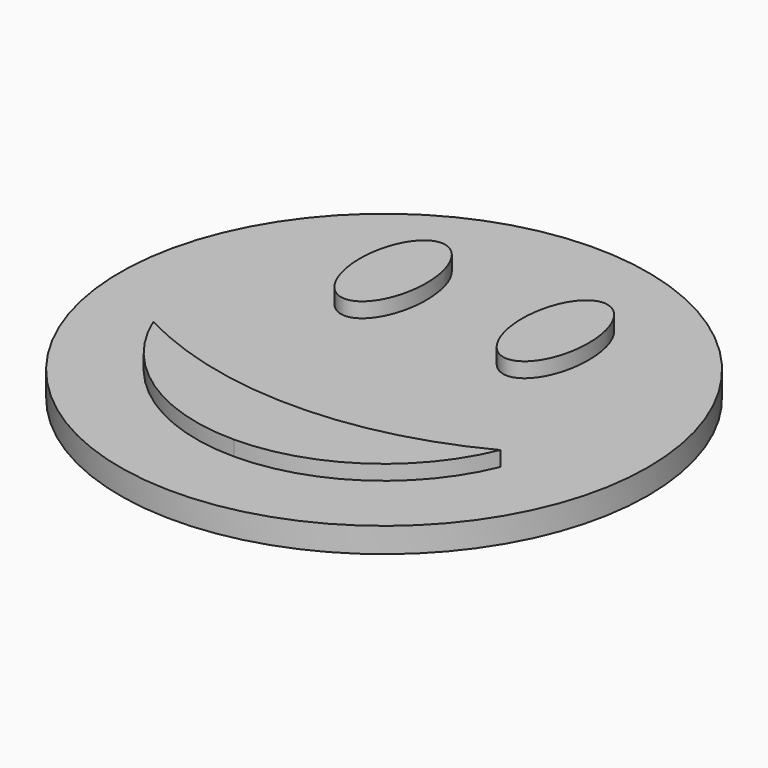
from build123d import *

# Parameters (mm, degrees)
F0_R     = 10.6
F1_DEPTH = 1
F3_DEPTH = 0.6


with BuildPart() as f1:
    # F0 (on Top) → F1 (new body)
    with BuildSketch(Plane.XY):
        Circle(F0_R)
    extrude(amount=F1_DEPTH)

    # F2 (on face) → F3 (join)
    with BuildSketch(Plane.XY.offset(1)):
        with BuildLine():
            ThreePointArc((-6.969293, -2.875118), (-4.192951, -6.265501), (0, -7.539054))
            ThreePointArc((0, -7.539054), (4.192951, -6.265501), (6.969293, -2.875118))
            ThreePointArc((6.969293, -2.875118), (0, -4.586903), (-6.969293, -2.875118))
        make_face()
        with BuildLine():
            add(Edge.make_bspline(
                [(-3.258655, 2.09461), (-0.944329, 2.09461), (-2.101492, 5.73978), (-3.258655, 9.384951), (-4.415818, 5.73978), (-5.572981, 2.09461), (-3.258655, 2.09461)],
                knots=[0, 0, 0, 2.094395, 2.094395, 4.18879, 4.18879, 6.283185, 6.283185, 6.283185], degree=2, weights=[1, 0.5, 1, 0.5, 1, 0.5, 1]))
        make_face()
        with BuildLine():
            add(Edge.make_bspline(
                [(3.258655, 2.09461), (5.572981, 2.09461), (4.415818, 5.73978), (3.258655, 9.384951), (2.101492, 5.73978), (0.944329, 2.09461), (3.258655, 2.09461)],
                knots=[0, 0, 0, 2.094395, 2.094395, 4.18879, 4.18879, 6.283185, 6.283185, 6.283185], degree=2, weights=[1, 0.5, 1, 0.5, 1, 0.5, 1]))
        make_face()
    extrude(amount=F3_DEPTH)


solid = f1.part
